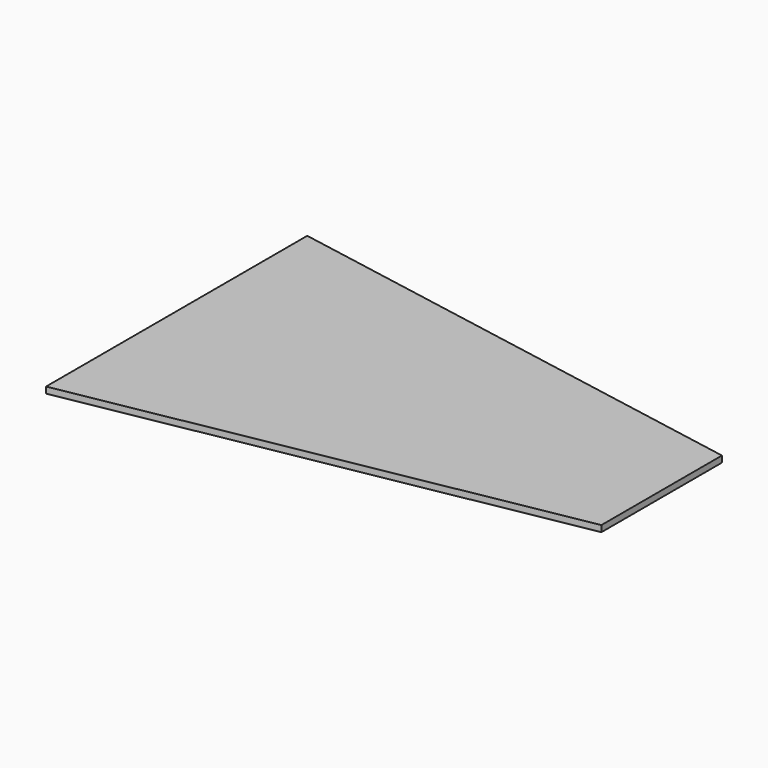
from build123d import *

# Parameters (mm, degrees)
F1_DEPTH = 1.058333


with BuildPart() as f1:
    # F0 (on Top) → F1 (new body)
    with BuildSketch(Plane.XY):
        Polygon((-40.879806, 12.7), (40.879447, 12.7), (-40.879806, 27.516667), align=None)
        Polygon((40.879806, -12.7), (40.879447, 12.7), (-40.879806, 12.7), (-40.879447, -12.7), align=None)
        Polygon((-40.879447, -27.516667), (40.879806, -12.7), (-40.879447, -12.7), align=None)
    extrude(amount=F1_DEPTH)


solid = f1.part
